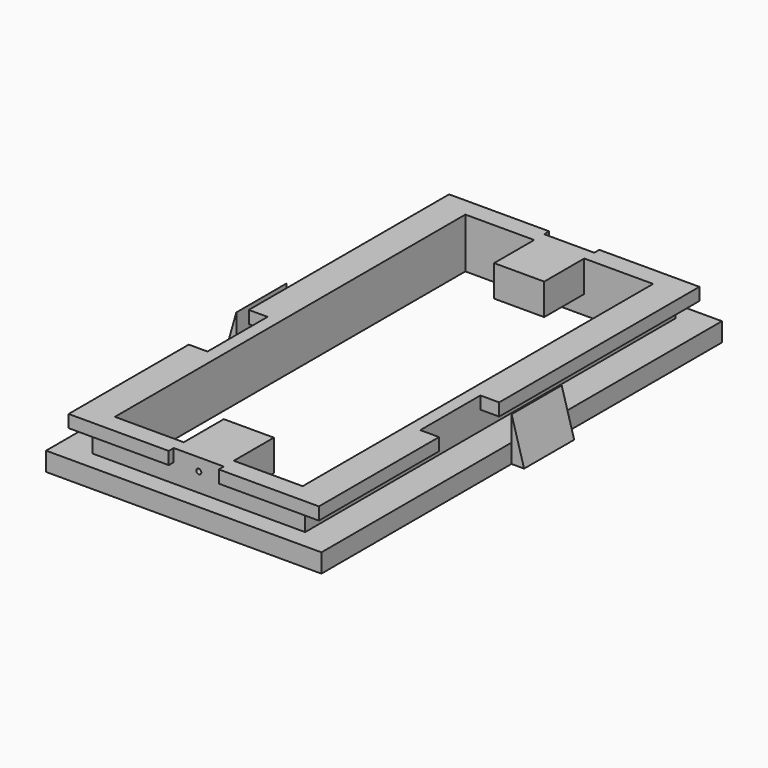
from build123d import *

# Parameters (mm, degrees)
CYLINDER_R             = 0.2
CYLINDER_DEPTH         = 4
CYLINDER_ROLL_ANGLE    = 90
CYLINDER001_R          = 0.2
CYLINDER001_DEPTH      = 4
CYLINDER001_ROLL_ANGLE = 90
BOX010_W               = 4
BOX010_H               = 2
BOX010_DEPTH           = 2.5
BOX011_W               = 4
BOX011_H               = 2
BOX011_DEPTH           = 2.5
BOX007_W               = 6
BOX007_H               = 6
BOX007_DEPTH           = 5
BOX006_W               = 6
BOX006_H               = 6
BOX006_DEPTH           = 5
BOX001_W               = 15
BOX001_H               = 35
BOX001_DEPTH           = 10
BOX004_W               = 17
BOX004_H               = 37
BOX004_DEPTH           = 2.5
BOX005_W               = 20
BOX005_H               = 38
BOX005_DEPTH           = 1
BOX_W                  = 22
BOX_H                  = 40
BOX_DEPTH              = 1.5
PAD_DEPTH              = 5
PAD001_DEPTH           = 5
BOX008_W               = 4
BOX008_H               = 5
BOX008_DEPTH           = 2.5
BOX009_W               = 4
BOX009_H               = 5
BOX009_DEPTH           = 2.5


with BuildPart() as m3_hole1:
    # Cylinder → Cylinder (new body)
    with BuildSketch(Plane.XY):
        Circle(CYLINDER_R)
    extrude(amount=CYLINDER_DEPTH)


with BuildPart() as m3_hole1_1:
    # Cylinder roll: moved
    add(m3_hole1.part.rotate(Axis((0, 0, 0), (1, 0, 0)), CYLINDER_ROLL_ANGLE))


with BuildPart() as m3_hole1_2:
    # Cylinder placement: moved
    add(m3_hole1_1.part.moved(Location((11, 5.5, 3))))


with BuildPart() as screw_holes:
    # Cylinder001 → Cylinder001 (new body)
    with BuildSketch(Plane.XY):
        Circle(CYLINDER001_R)
    extrude(amount=CYLINDER001_DEPTH)


with BuildPart() as screw_holes_1:
    # Cylinder001 roll: moved
    add(screw_holes.part.rotate(Axis((0, 0, 0), (1, 0, 0)), CYLINDER001_ROLL_ANGLE))


with BuildPart() as screw_holes_2:
    # Cylinder001 placement: moved
    add(screw_holes_1.part.moved(Location((11, 38.5, 3))))

    # Fusion003: union M3 hole1
    add(m3_hole1_2.part)


with BuildPart() as remove:
    # Box010 → Box010 (new body)
    with BuildSketch(Plane(origin=(9, -0.5, 1.5), x_dir=(1, 0, 0), z_dir=(0, 0, 1))):
        with Locations((2, 1)):
            Rectangle(BOX010_W, BOX010_H)
    extrude(amount=BOX010_DEPTH)


with BuildPart() as fusion004:
    # Box011 → Box011 (new body)
    with BuildSketch(Plane(origin=(9, 38.5, 1.5), x_dir=(1, 0, 0), z_dir=(0, 0, 1))):
        with Locations((2, 1)):
            Rectangle(BOX011_W, BOX011_H)
    extrude(amount=BOX011_DEPTH)

    # Fusion004: union remove
    add(remove.part)


with BuildPart() as space001:
    # Box007 → Box007 (new body)
    with BuildSketch(Plane(origin=(19.5, 13, 1.5), x_dir=(1, 0, 0), z_dir=(0, 0, 1))):
        with Locations((3, 3)):
            Rectangle(BOX007_W, BOX007_H)
    extrude(amount=BOX007_DEPTH)


with BuildPart() as fusion001:
    # Box006 → Box006 (new body)
    with BuildSketch(Plane(origin=(-3.5, 13, 1.5), x_dir=(1, 0, 0), z_dir=(0, 0, 1))):
        with Locations((3, 3)):
            Rectangle(BOX006_W, BOX006_H)
    extrude(amount=BOX006_DEPTH)

    # Fusion001: union space001
    add(space001.part)


with BuildPart() as inner_space:
    # Box001 → Box001 (new body)
    with BuildSketch(Plane(origin=(3.5, 2.5, 0), x_dir=(1, 0, 0), z_dir=(0, 0, 1))):
        with Locations((7.5, 17.5)):
            Rectangle(BOX001_W, BOX001_H)
    extrude(amount=BOX001_DEPTH)


with BuildPart() as track_inner:
    # Box004 → Box004 (new body)
    with BuildSketch(Plane(origin=(2.5, 1.5, 1.5), x_dir=(1, 0, 0), z_dir=(0, 0, 1))):
        with Locations((8.5, 18.5)):
            Rectangle(BOX004_W, BOX004_H)
    extrude(amount=BOX004_DEPTH)


with BuildPart() as track_outer:
    # Box005 → Box005 (new body)
    with BuildSketch(Plane(origin=(1, 1, 3), x_dir=(1, 0, 0), z_dir=(0, 0, 1))):
        with Locations((10, 19)):
            Rectangle(BOX005_W, BOX005_H)
    extrude(amount=BOX005_DEPTH)


with BuildPart() as cut002:
    # Box → Box (new body)
    with BuildSketch(Plane.XY):
        with Locations((11, 20)):
            Rectangle(BOX_W, BOX_H)
    extrude(amount=BOX_DEPTH)

    # Fusion: union track_inner, track_outer
    add(track_inner.part)
    add(track_outer.part)

    # Cut: cut inner space
    add(inner_space.part, mode=Mode.SUBTRACT)

    # Cut001: cut Fusion001
    add(fusion001.part, mode=Mode.SUBTRACT)

    # Cut002: cut Fusion004
    add(fusion004.part, mode=Mode.SUBTRACT)


with BuildPart() as pad:
    # Sketch → Pad (new body)
    with BuildSketch(Plane.XZ.offset(-21)):
        Polygon((0, 0), (0, 3.5), (-1, 0), align=None)
    extrude(amount=PAD_DEPTH)


with BuildPart() as slide_control:
    # Sketch001 → Pad001 (new body)
    with BuildSketch(Plane.XZ.offset(-21)):
        Polygon((21.996317, 3.488174), (21.996317, -0.011826), (22.996317, -0.011826), align=None)
    extrude(amount=PAD001_DEPTH)

    # Fusion005: union Pad
    add(pad.part)


with BuildPart() as slide_control_1:
    # Fusion005 placement: moved
    add(slide_control.part.moved(Location((0, 3, 0))))


with BuildPart() as screw_block1:
    # Box008 → Box008 (new body)
    with BuildSketch(Plane(origin=(9, 1.5, 1.5), x_dir=(1, 0, 0), z_dir=(0, 0, 1))):
        with Locations((2, 2.5)):
            Rectangle(BOX008_W, BOX008_H)
    extrude(amount=BOX008_DEPTH)


with BuildPart() as basesensormount:
    # Box009 → Box009 (new body)
    with BuildSketch(Plane(origin=(9, 33.5, 1.5), x_dir=(1, 0, 0), z_dir=(0, 0, 1))):
        with Locations((2, 2.5)):
            Rectangle(BOX009_W, BOX009_H)
    extrude(amount=BOX009_DEPTH)

    # Fusion002: union screw block1
    add(screw_block1.part)

    # Fusion006: union Cut002, slide control
    add(cut002.part)
    add(slide_control_1.part)

    # Cut003: cut screw holes
    add(screw_holes_2.part, mode=Mode.SUBTRACT)


solid = basesensormount.part
